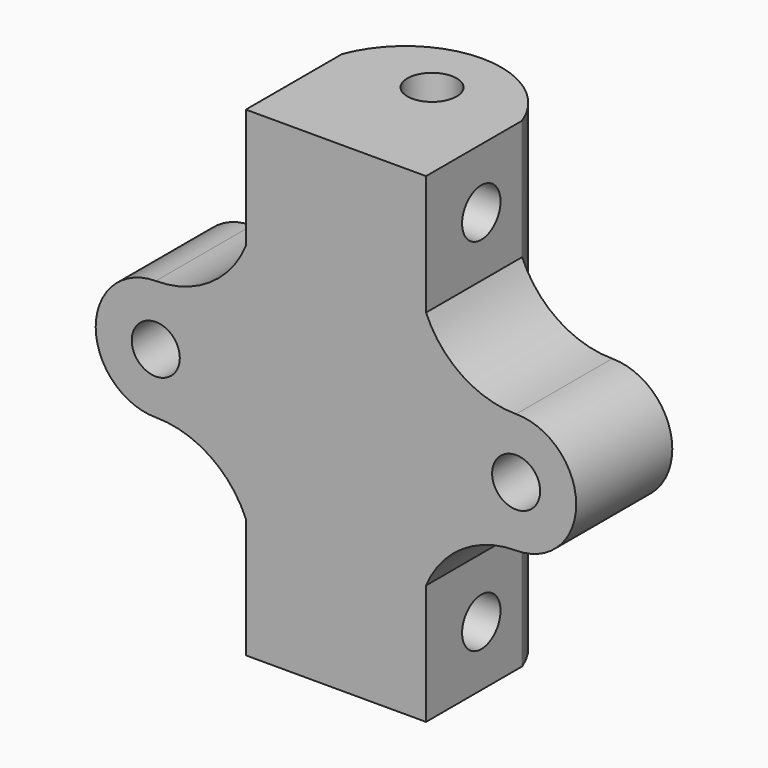
from build123d import *

# Parameters (mm, degrees)
SKETCH007_R  = 4
PAD003_DEPTH = 20
SKETCH001_R  = 4
PAD004_DEPTH = 32
PAD006_DEPTH = 4
PAD001_DEPTH = 4
SKETCH_R     = 4.1
PAD_DEPTH    = 80
PAD008_DEPTH = 10


with BuildPart() as rodhole01:
    # Sketch007 → Pad003 (new body)
    with BuildSketch(Plane.XZ.offset(15)):
        with Locations((30, 40)):
            Circle(SKETCH007_R)
        with Locations((-30, 40)):
            Circle(SKETCH007_R)
    extrude(amount=-PAD003_DEPTH)


with BuildPart() as rodhole02:
    # Sketch001 → Pad004 (new body)
    with BuildSketch(Plane.YZ.offset(16)):
        with Locations((-3.5, 70)):
            Circle(SKETCH001_R)
        with Locations((-3.5, 10)):
            Circle(SKETCH001_R)
    extrude(amount=-PAD004_DEPTH)


with BuildPart() as obj1:
    # Sketch002 → Pad006 (new body)
    with BuildSketch(Plane.YZ.offset(-11)):
        Polygon((3.9, 70), (0.2, 76.408588), (-7.2, 76.408588), (-10.9, 70), (-7.2, 63.591412), (0.2, 63.591412), align=None)
        Polygon((0.2, 3.591412), (3.9, 10), (0.2, 16.408588), (-7.2, 16.408588), (-10.9, 10), (-7.2, 3.591412), align=None)
    extrude(amount=-PAD006_DEPTH)


with BuildPart() as cutblock:
    # Sketch008 → Pad001 (new body)
    with BuildSketch(Plane.XZ.offset(-1)):
        Polygon((33.7, 33.591412), (37.4, 40), (33.7, 46.408588), (26.3, 46.408588), (22.6, 40), (26.3, 33.591412), align=None)
        Polygon((-26.3, 33.591412), (-22.6, 40), (-26.3, 46.408588), (-33.7, 46.408588), (-37.4, 40), (-33.7, 33.591412), align=None)
    extrude(amount=-PAD001_DEPTH)

    # Fusion001: union RodHole01, RodHole02, obj1
    add(rodhole01.part)
    add(rodhole02.part)
    add(obj1.part)


with BuildPart() as base:
    # Sketch → Pad (new body)
    with BuildSketch(Plane.XY):
        with BuildLine():
            Line((-15, 5), (-15, -15))
            Line((-15, -15), (15, -15))
            Line((15, -15), (15, 5))
            ThreePointArc((15, 5), (0, 15.432236), (-15, 5))
        make_face()
        with Locations((0, 5)):
            Circle(SKETCH_R, mode=Mode.SUBTRACT)
    extrude(amount=PAD_DEPTH)


with BuildPart() as cut:
    # Sketch010 → Pad008 (new body, symmetric)
    with BuildSketch(Plane.XZ.offset(5)):
        with BuildLine():
            ThreePointArc((-15, 20), (-20.986141, 27.270818), (-30.000033, 30))
            ThreePointArc((-30.000014, 50), (-40, 40.000009), (-30.000033, 30))
            ThreePointArc((-30.000014, 50), (-20.986133, 52.729187), (-15, 60))
            Line((-15, 60), (-15, 20))
        make_face()
        with BuildLine():
            ThreePointArc((15, 60), (20.986133, 52.729187), (30.000013, 50))
            ThreePointArc((30.000013, 30), (40, 40), (30.000013, 50))
            ThreePointArc((30.000013, 30), (20.986133, 27.270813), (15, 20))
            Line((15, 60), (15, 20))
        make_face()
    extrude(amount=PAD008_DEPTH, both=True)

    # Fusion: union Base
    add(base.part)

    # Cut: cut CutBlock
    add(cutblock.part, mode=Mode.SUBTRACT)


solid = cut.part
